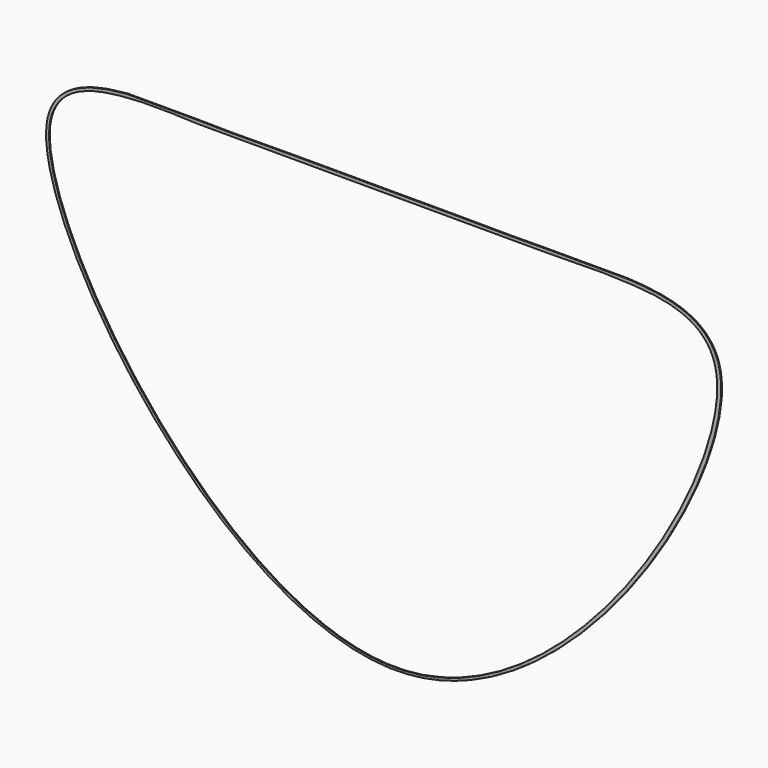
from build123d import *

# Parameters (mm, degrees)
F1_DEPTH = 1.27


with BuildPart() as f1:
    # F0 (on Front) → F1 (new body)
    with BuildSketch(Plane.XZ):
        with BuildLine():
            Line((-218.7999784946, 0), (-304.3267223323, 0))
            add(Edge.make_bspline(
                [(-304.3267223323, 0), (-343.5385081872, -3.2616397014), (-515.5869947017, -35.5573968105), (34.1290452359, -844.6068059024), (533.15072983, -24.1146340135), (350.8833147244, -2.3571249095), (305.6732776677, 0)],
                knots=[0, 0, 0, 0, 0.0856297383, 0.2830951912, 0.4765962365, 0.5667169656, 0.5667169656, 0.5667169656, 0.5667169656], degree=3))
            Line((305.6732776677, 0), (203.7790566683, 0))
            add(Edge.make_bspline(
                [(203.7790566683, 0), (170.4899633381, -0.6248397775), (135.5420322758, -0.2459029667), (90.8691505093, 0)],
                knots=[0.6467393737, 0.6467393737, 0.6467393737, 0.6467393737, 0.7309763682, 0.7309763682, 0.7309763682, 0.7309763682], degree=3))
            Line((90.8691505093, 0), (-102.7479089397, 0))
            add(Edge.make_bspline(
                [(-102.7479089398, 0), (-149.1554975158, -0.321986884), (-186.432573172, -0.9495303824), (-218.7999784946, 0)],
                knots=[0.8412847846, 0.8412847846, 0.8412847846, 0.8412847846, 0.9266858492, 0.9266858492, 0.9266858492, 0.9266858492], degree=3))
        make_face()
        with BuildLine():
            add(Edge.make_bspline(
                [(203.7179917097, -4.0271701291), (235.3553911986, -3.4939029073), (265.6188660665, -2.1520824319), (305.2979707718, -4.0271701291)],
                knots=[0.9196753185, 0.9196753185, 0.9196753185, 0.9196753185, 1, 1, 1, 1], degree=3))
            add(Edge.make_bspline(
                [(305.2979707718, -4.0271701291), (349.0884337143, -6.0965454068), (525.0278479664, -25.1602676928), (34.2473691041, -840.9247629166), (-508.0655364418, -37.6174090565), (-343.8007997976, -7.1319146487), (-305.7079315186, -4.0271701291)],
                knots=[0, 0, 0, 0, 0.0886475392, 0.2822484988, 0.4799439995, 0.5639324825, 0.5639324825, 0.5639324825, 0.5639324825], degree=3))
            add(Edge.make_bspline(
                [(-305.7079315186, -4.0271701291), (-271.9185399413, -1.2731788163), (-246.6938261952, -3.2282695282), (-218.3257341385, -4.0271701291)],
                knots=[0.5639324825, 0.5639324825, 0.5639324825, 0.5639324825, 0.6384325101, 0.6384325101, 0.6384325101, 0.6384325101], degree=3))
            Line((-218.3257341385, -4.0271701291), (-102.8345823288, -4.0271701291))
            add(Edge.make_bspline(
                [(-102.8345823288, -4.0271701291), (-43.1364059278, -3.6273862571), (32.2218230056, -3.7319250198), (90.75204283, -4.0271701291)],
                knots=[0.7240809209, 0.7240809209, 0.7240809209, 0.7240809209, 0.8349684298, 0.8349684298, 0.8349684298, 0.8349684298], degree=3))
            Line((90.75204283, -4.0271701291), (203.7179917097, -4.0271701291))
        make_face(mode=Mode.SUBTRACT)
    extrude(amount=F1_DEPTH)


solid = f1.part
